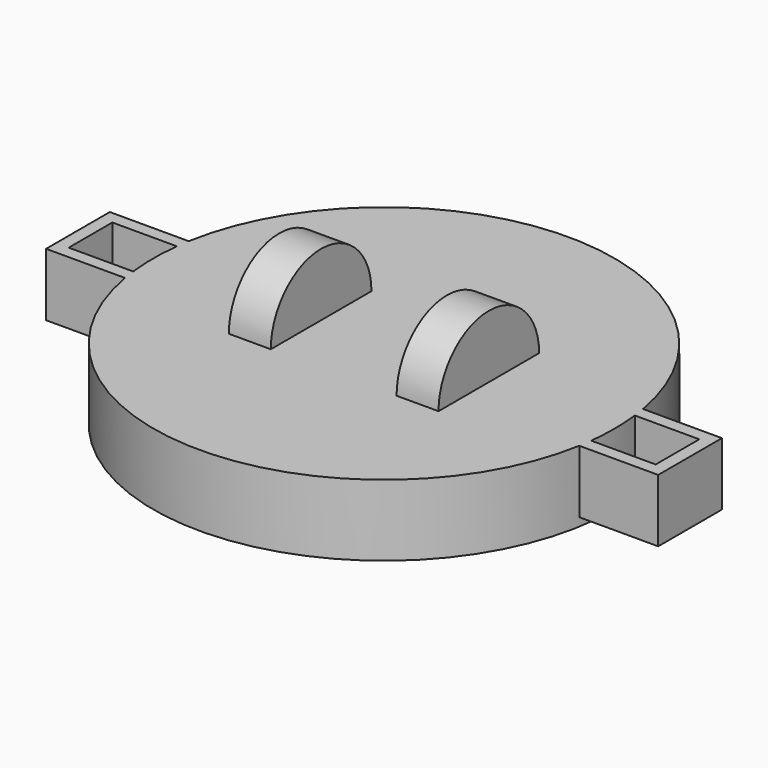
from build123d import *

# Parameters (mm, degrees)
F0_R     = 55
F0_R_2   = 53
F1_DEPTH = 15
F2_R     = 55
F2_R_2   = 53
F3_DEPTH = 2
F4_W     = 10
F4_H     = 15
F5_ANGLE = 180
F7_DEPTH = 15


with BuildPart() as f1:
    # F0 (on Top) → F1 (new body)
    with BuildSketch(Plane.XY):
        Circle(F0_R)
        Circle(F0_R_2, mode=Mode.SUBTRACT)
        Circle(F0_R_2)
    extrude(amount=F1_DEPTH)

    # F2 (on Top) → F3 (join)
    with BuildSketch(Plane.XY):
        Circle(F2_R)
        Circle(F2_R_2, mode=Mode.SUBTRACT)
    extrude(amount=-F3_DEPTH)

    # F4 (on face) → F5 (revolve)
    with BuildSketch(Plane.XY.offset(15)):
        with Locations((-20, 7.5)):
            Rectangle(F4_W, F4_H)
        with Locations((20, 7.5)):
            Rectangle(F4_W, F4_H)
    revolve(axis=Axis((3.316946, 0, 15), (1, 0, 0)), revolution_arc=F5_ANGLE)

    # F6 (on Top) → F7 (join)
    with BuildSketch(Plane.XY):
        Polygon((-70, 6.5), (-53.270391, 6.5), (-52.225381, 9.5), (-73, 9.5), (-73, 0), (-73, -9.5), (-52.225381, -9.5), (-53.270391, -6.5), (-70, -6.5), (-70, 0), align=None)
        Polygon((73, 9.5), (52.225381, 9.5), (53.270391, 6.5), (70, 6.5), (70, 0), (70, -6.5), (53.270391, -6.5), (52.225381, -9.5), (73, -9.5), (73, 0), align=None)
    extrude(amount=F7_DEPTH)


solid = f1.part
